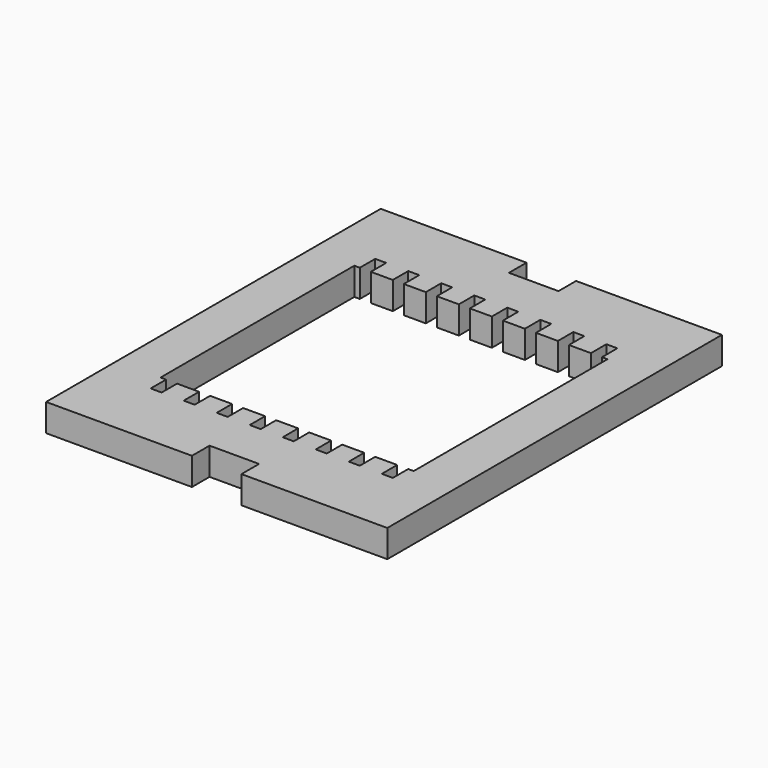
from build123d import *

# Parameters (mm, degrees)
F1_DEPTH = 2.5


with BuildPart() as f1:
    # F0 (on Top) → F1 (new body)
    with BuildSketch(Plane.XY):
        Polygon((2.25, -19), (15.5, -19), (15.5, -17), (15.5, 17), (15.5, 19), (2.25, 19), (2.25, 17), (-2.25, 17), (-2.25, 19), (-15.5, 19), (-15.5, 17), (-15.5, -17), (-15.5, -19), (-2.25, -19), (-2.25, -17), (2.25, -17), align=None)
        Polygon((11.5, 11), (11.5, -11), (11, -11), (11, -12.75), (10, -12.75), (10, -11), (8, -11), (8, -12.75), (7, -12.75), (7, -11), (5, -11), (5, -12.75), (4, -12.75), (4, -11), (2, -11), (2, -12.75), (1, -12.75), (1, -11), (-1, -11), (-1, -12.75), (-2, -12.75), (-2, -11), (-4, -11), (-4, -12.75), (-5, -12.75), (-5, -11), (-7, -11), (-7, -12.75), (-8, -12.75), (-8, -11), (-10, -11), (-10, -12.75), (-11, -12.75), (-11, -11), (-11.5, -11), (-11.5, 11), (-11, 11), (-11, 12.75), (-10, 12.75), (-10, 11), (-8, 11), (-8, 12.75), (-7, 12.75), (-7, 11), (-5, 11), (-5, 12.75), (-4, 12.75), (-4, 11), (-2, 11), (-2, 12.75), (-1, 12.75), (-1, 11), (1, 11), (1, 12.75), (2, 12.75), (2, 11), (4, 11), (4, 12.75), (5, 12.75), (5, 11), (7, 11), (7, 12.75), (8, 12.75), (8, 11), (10, 11), (10, 12.75), (11, 12.75), (11, 11), align=None, mode=Mode.SUBTRACT)
    extrude(amount=F1_DEPTH)


solid = f1.part
